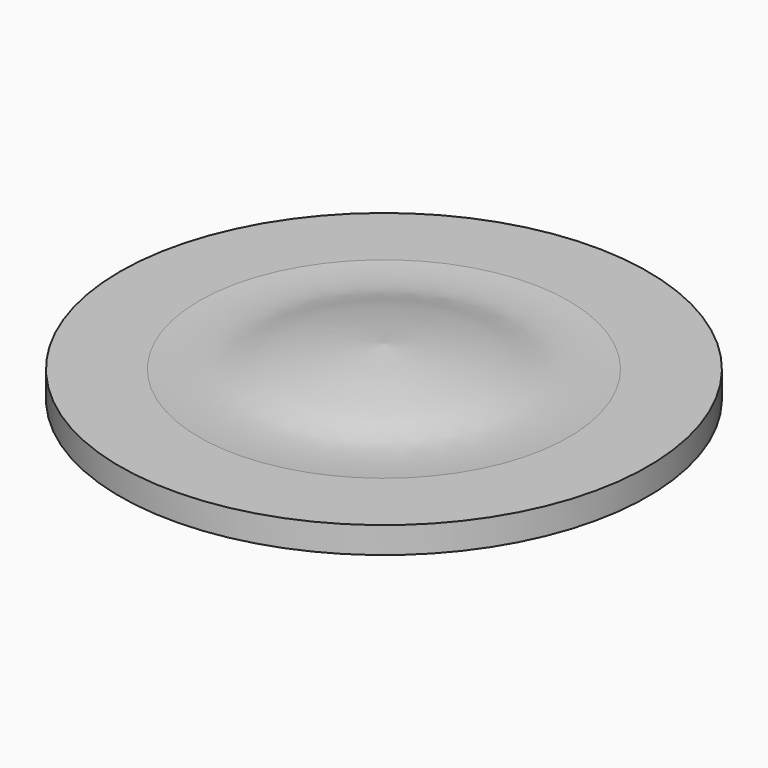
from build123d import *


with BuildPart() as f1:
    # F0 (on Front) → F1 (revolve)
    with BuildSketch(Plane.XZ):
        with BuildLine():
            add(Edge.make_bspline(
                [(-350, 42.2123651127), (-323.3171143962, 44.6703465887), (-211.6551142347, 48.5758227514), (-186.2250758575, 15.7154912324), (0, 0)],
                knots=[0, 0, 0, 0, 0.3857593196, 1, 1, 1, 1], degree=3))
            Line((0, 0), (0, 67.2123651127))
            Line((0, 67.2123651127), (-500, 67.2123651127))
            Line((-500, 67.2123651127), (-500, 42.2123651127))
            Line((-500, 42.2123651127), (-350, 42.2123651127))
        make_face()
        with BuildLine():
            Line((-500, 67.2123651127), (0, 67.2123651127))
            Line((0, 67.2123651127), (0, 134.4247302253))
            add(Edge.make_bspline(
                [(-350, 92.2123651127), (-323.3171143962, 89.7543836367), (-211.6551142347, 85.8489074739), (-186.2250758575, 118.7092389929), (0, 134.4247302253)],
                knots=[0, 0, 0, 0, 0.3857593196, 1, 1, 1, 1], degree=3))
            Line((-350, 92.2123651127), (-500, 92.2123651127))
            Line((-500, 92.2123651127), (-500, 67.2123651127))
        make_face()
    revolve(axis=Axis((0, 0, 67.2123651127), (0, 0, 1)))


solid = f1.part
